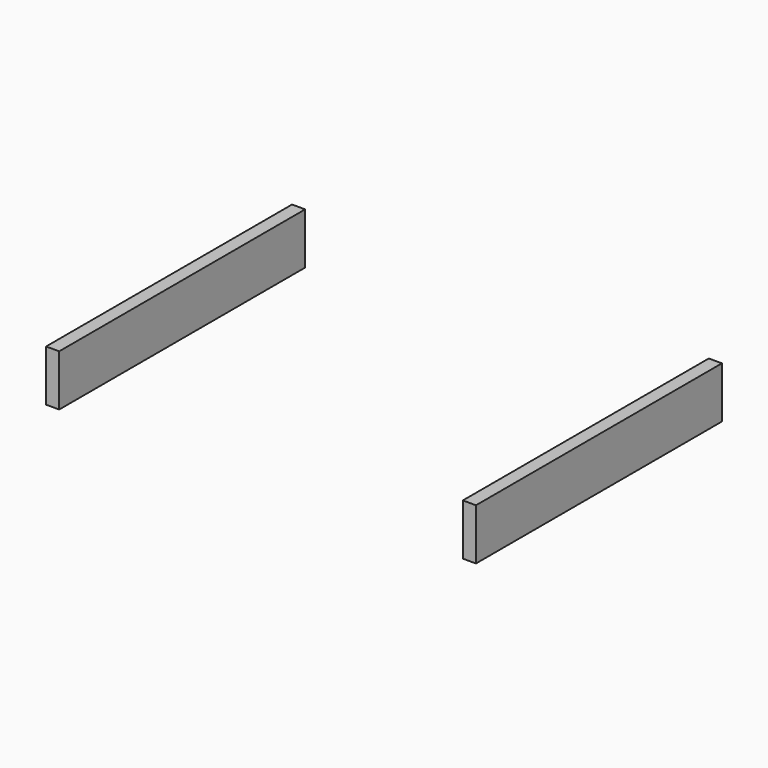
from build123d import *

# Parameters (mm, degrees)
F0_W     = 19.5
F0_H     = 76.2
F1_DEPTH = 457


with BuildPart() as f1:
    # F0 (on Front) → F1 (new body)
    with BuildSketch(Plane.XZ):
        with Locations((309.75, -38.1)):
            Rectangle(F0_W, F0_H)
        with Locations((-309.75, -38.1)):
            Rectangle(F0_W, F0_H)
    extrude(amount=-F1_DEPTH)


solid = f1.part
